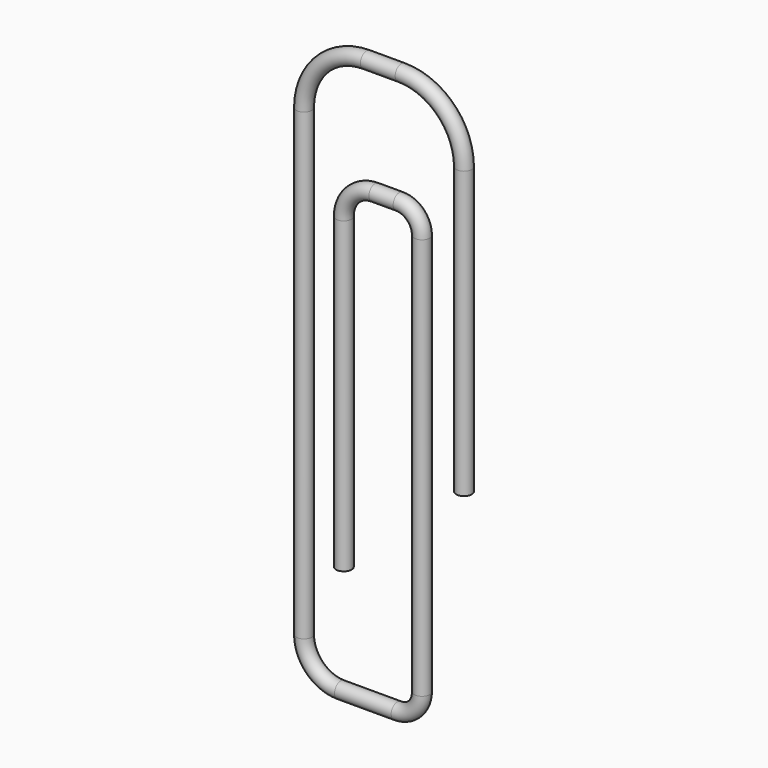
from build123d import *

# Parameters (mm, degrees)
SKETCH001_R = 0.75


with BuildPart() as part:
    # AdditivePipe: sweep along a path in Sketch
    with BuildLine(Plane.XZ) as additivepipe_path:
        Line((11.17411, -6.073207), (11.17411, 21.488052))
        ThreePointArc((11.17411, 21.488052), (9.416751, 25.730693), (5.17411, 27.488052))
        Line((5.17411, 27.488052), (1.82604, 27.488052))
        ThreePointArc((1.82604, 27.488052), (-2.4166, 25.730693), (-4.17396, 21.488052))
        Line((-4.17396, 21.488052), (-4.17396, -23.205542))
        ThreePointArc((-4.17396, -23.205542), (-3.146623, -25.685752), (-0.666413, -26.713088))
        Line((-0.666413, -26.713088), (4.789174, -26.713088))
        ThreePointArc((4.789174, -26.713088), (6.441629, -26.028619), (7.126097, -24.376165))
        Line((7.126097, -24.376165), (7.126097, 14.346818))
        ThreePointArc((7.126097, 14.346818), (6.498078, 15.862991), (4.981905, 16.491011))
        Line((4.981905, 16.491011), (2.647215, 16.491011))
        ThreePointArc((2.647215, 16.491011), (0.534027, 15.6157), (-0.341284, 13.502512))
        Line((-0.341284, 13.502512), (-0.341284, -16.22648))
    # Sketch001 → AdditivePipe (sweep)
    with BuildSketch(Plane.XY):
        with Locations((-4.206457, 0)):
            Circle(SKETCH001_R)
    sweep(path=additivepipe_path.line)


solid = part.part
